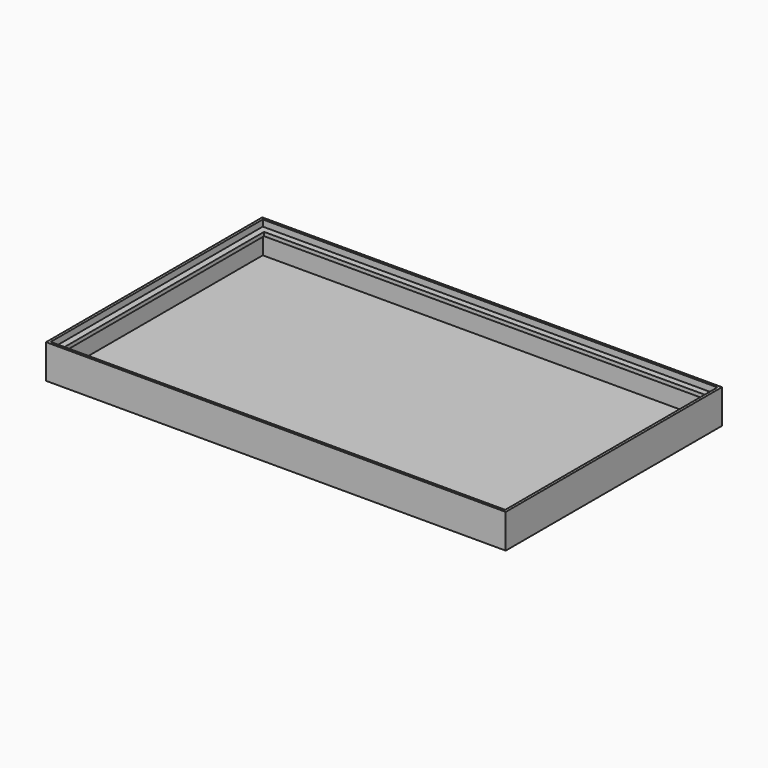
from build123d import *

# Parameters (mm, degrees)
F0_W     = 364
F0_H     = 214
F1_DEPTH = 27
F3_DEPTH = 25
F4_W     = 360
F4_H     = 210
F5_DEPTH = 20
F6_DEPTH = 17


with BuildPart() as f1:
    # F0 (on Top) → F1 (new body)
    with BuildSketch(Plane.XY):
        with Locations((-182, -107)):
            Rectangle(F0_W, F0_H)
    extrude(amount=F1_DEPTH)

    # F2 (on face) → F3 (cut)
    with BuildSketch(Plane.XY.offset(27)):
        Polygon((-2, -2), (-246.590644, -2), (-362, -2), (-362, -107), (-362, -212), (-247.691646, -212), (-2, -212), (-2, -112.870261), align=None)
    extrude(amount=-F3_DEPTH, mode=Mode.SUBTRACT)

    # F4 (on face) → F5 (join)
    with BuildSketch(Plane.XY.offset(2)):
        with Locations((-182, -107)):
            Rectangle(F4_W, F4_H)
        Polygon((-357, -207), (-357, -107), (-357, -7), (-279.820502, -7), (-7, -7), (-7, -107), (-7, -207), (-279.820502, -207), align=None, mode=Mode.SUBTRACT)
    extrude(amount=F5_DEPTH)

    # F4 (on face) → F6 (cut)
    with BuildSketch(Plane.XY.offset(2)):
        with Locations((-182, -107)):
            Rectangle(F4_W, F4_H)
        Polygon((-357, -207), (-357, -107), (-357, -7), (-279.820502, -7), (-7, -7), (-7, -107), (-7, -207), (-279.820502, -207), align=None, mode=Mode.SUBTRACT)
    extrude(amount=F6_DEPTH, mode=Mode.SUBTRACT)


solid = f1.part
